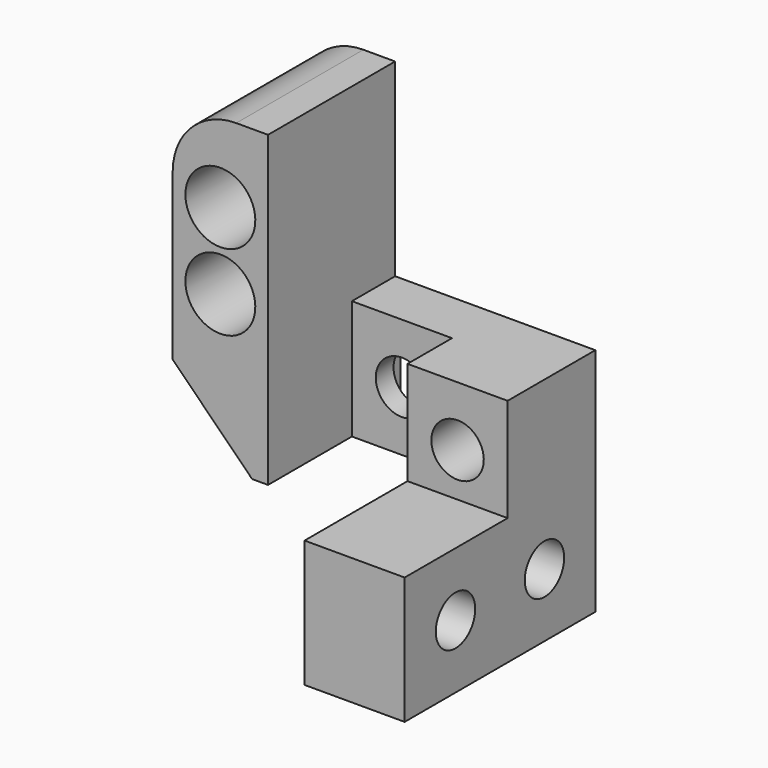
from build123d import *

# Parameters (mm, degrees)
SKETCH_R        = 1.55
PAD_DEPTH       = 6.3
SKETCH001_W     = 3.4
SKETCH001_H     = 7.5
PAD001_DEPTH    = 6.3
SKETCH002_W     = 10
SKETCH002_H     = 19.4
PAD002_DEPTH    = 6
SKETCH003_R     = 1.65
POCKET_DEPTH    = 6.901
SKETCH004_R     = 1.65
POCKET001_DEPTH = 3.401
SKETCH005_R     = 2.2
POCKET002_DEPTH = 5
SKETCH006_W     = 5.6
SKETCH006_H     = 5.6
POCKET003_DEPTH = 2
SKETCH007_W     = 5.6
SKETCH007_H     = 5.6
POCKET004_DEPTH = 2
FILLET_R        = 4
CHAMFER_SIZE    = 5


with BuildPart() as part:
    # Sketch → Pad (new body)
    with BuildSketch(Plane.YZ):
        Polygon((-6.9, -4.5), (0, -4.5), (0, -19), (-15, -19), (-15, -11), (-6.9, -11), align=None)
        with Locations((-11, -15)):
            Circle(SKETCH_R, mode=Mode.SUBTRACT)
        with Locations((-4, -15)):
            Circle(SKETCH_R, mode=Mode.SUBTRACT)
    extrude(amount=PAD_DEPTH)

    # Sketch001 (on Face9 of Pad) → Pad001 (join)
    with BuildSketch(Plane(origin=(0, 0, 0), x_dir=(0, 1, 0), z_dir=(-1, 0, 0))):
        with Locations((-1.7, 8.25)):
            Rectangle(SKETCH001_W, SKETCH001_H)
    extrude(amount=PAD001_DEPTH)

    # Sketch002 (on Face11 of Pad001) → Pad002 (join)
    with BuildSketch(Plane(origin=(-6.3, 0, 0), x_dir=(0, 1, 0), z_dir=(-1, 0, 0))):
        with Locations((-5, 2.3)):
            Rectangle(SKETCH002_W, SKETCH002_H)
    extrude(amount=PAD002_DEPTH)

    # Sketch003 (on Face1 of Pad002) → Pocket (cut, through all)
    with BuildSketch(Plane(origin=(0, -6.9, 0), x_dir=(0, 0, -1), z_dir=(0, -1, 0))):
        with Locations((8.25, 3.15)):
            Circle(SKETCH003_R)
    extrude(amount=-POCKET_DEPTH, mode=Mode.SUBTRACT)

    # Sketch004 (on Face11 of Pocket) → Pocket001 (cut, through all)
    with BuildSketch(Plane(origin=(0, -3.4, 0), x_dir=(0, 0, -1), z_dir=(0, -1, 0))):
        with Locations((8.25, -3.15)):
            Circle(SKETCH004_R)
    extrude(amount=-POCKET001_DEPTH, mode=Mode.SUBTRACT)

    # Sketch005 (on Face18 of Pocket001) → Pocket002 (cut)
    with BuildSketch(Plane(origin=(0, -10, 0), x_dir=(0, 0, -1), z_dir=(0, -1, 0))):
        with Locations((-2.4, -9.3)):
            Circle(SKETCH005_R)
        with Locations((2.4, -9.3)):
            Circle(SKETCH005_R)
    extrude(amount=-POCKET002_DEPTH, mode=Mode.SUBTRACT)

    # Sketch006 (on Face3 of Pocket002) → Pocket003 (cut)
    with BuildSketch(Plane(origin=(0, 0, 0), x_dir=(0, 1, 0), z_dir=(-1, 0, 0))):
        with Locations((-4, 15)):
            Rectangle(SKETCH006_W, SKETCH006_H)
        with Locations((-11, 15)):
            Rectangle(SKETCH006_W, SKETCH006_H)
    extrude(amount=-POCKET003_DEPTH, mode=Mode.SUBTRACT)

    # Sketch007 (on Face11 of Pocket003) → Pocket004 (cut)
    with BuildSketch(Plane.ZX):
        with Locations((-8.25, 3.15)):
            Rectangle(SKETCH007_W, SKETCH007_H)
        with Locations((-8.25, -3.15)):
            Rectangle(SKETCH007_W, SKETCH007_H)
    extrude(amount=-POCKET004_DEPTH, mode=Mode.SUBTRACT)

    # Fillet
    fillet_edges = [part.edges().sort_by_distance(p)[0] for p in [
        (-12.3, -5, 7.4),
    ]]
    fillet(fillet_edges, radius=FILLET_R)

    # Chamfer
    chamfer_edges = [part.edges().sort_by_distance(p)[0] for p in [
        (-12.3, -5, -12),
    ]]
    chamfer(chamfer_edges, length=CHAMFER_SIZE)


solid = part.part
